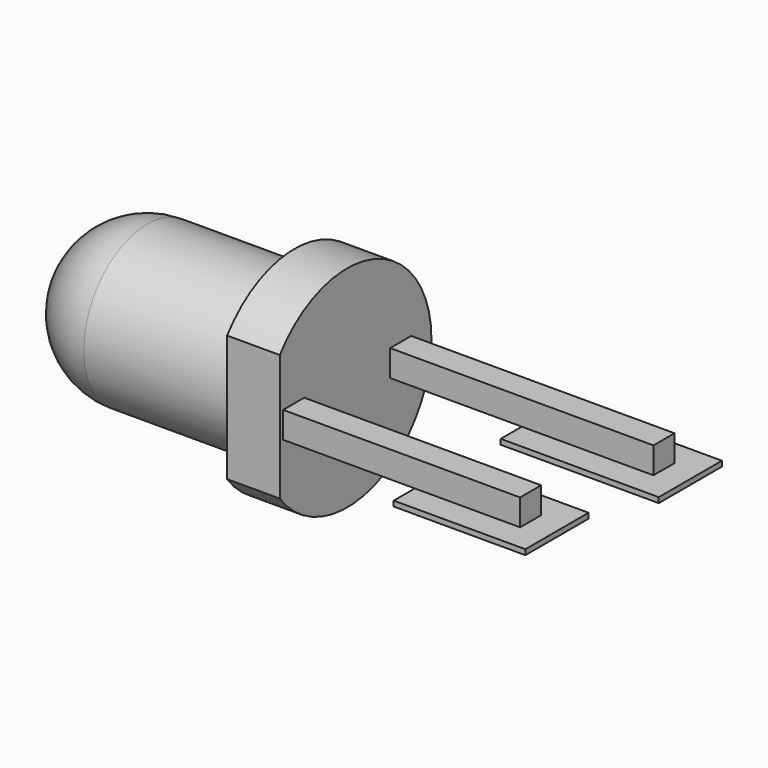
from build123d import *

# Parameters (mm, degrees)
SKETCH_W     = 3
SKETCH_H     = 1.5
PAD_DEPTH    = 0.1
SKETCH001_W  = 2.5
SKETCH001_H  = 1.5
PAD001_DEPTH = 0.1
SKETCH002_W  = 0.5
SKETCH002_H  = 0.5
PAD002_DEPTH = 5
SKETCH003_W  = 0.5
SKETCH003_H  = 0.5
PAD003_DEPTH = 4.5
PAD004_DEPTH = 1
SKETCH005_R  = 1.5
PAD005_DEPTH = 4.3
FILLET_R     = 1.5


with BuildPart() as obj1:
    # Sketch → Pad (new body)
    with BuildSketch(Plane.XY):
        with Locations((2, 1.27)):
            Rectangle(SKETCH_W, SKETCH_H)
    extrude(amount=-PAD_DEPTH)


with BuildPart() as pad_cathode:
    # Sketch001 → Pad001 (new body)
    with BuildSketch(Plane.XY):
        with Locations((1.75, -1.27)):
            Rectangle(SKETCH001_W, SKETCH001_H)
    extrude(amount=-PAD001_DEPTH)


with BuildPart() as obj2:
    # Sketch002 → Pad002 (new body)
    with BuildSketch(Plane.YZ):
        with Locations((1.27, 0.25)):
            Rectangle(SKETCH002_W, SKETCH002_H)
    extrude(amount=PAD002_DEPTH)


with BuildPart() as obj2_1:
    # Body002 placement: moved
    add(obj2.part.moved(Location((-2, 0, 0))))


with BuildPart() as pin_cathode:
    # Sketch003 → Pad003 (new body)
    with BuildSketch(Plane.YZ):
        with Locations((-1.27, 0.25)):
            Rectangle(SKETCH003_W, SKETCH003_H)
    extrude(amount=PAD003_DEPTH)


with BuildPart() as pin_cathode_1:
    # Body003 placement: moved
    add(pin_cathode.part.moved(Location((-2, 0, 0))))


with BuildPart() as led_body:
    # Sketch004 → Pad004 (new body)
    with BuildSketch(Plane.YZ):
        with BuildLine():
            ThreePointArc((-1.6, -0.95), (2, 0.25), (-1.6, 1.45))
            Line((-1.6, 1.45), (-1.6, -0.95))
        make_face()
    extrude(amount=-PAD004_DEPTH)

    # Sketch005 (on Face4 of Pad004) → Pad005 (join)
    with BuildSketch(Plane(origin=(-1, 0, 0), x_dir=(0, 1, 0), z_dir=(-1, 0, 0))):
        with Locations((0, -0.25)):
            Circle(SKETCH005_R)
    extrude(amount=PAD005_DEPTH)

    # Fillet
    fillet_edges = [led_body.edges().sort_by_distance(p)[0] for p in [
        (-5.3, -1.5, 0.25),
    ]]
    fillet(fillet_edges, radius=FILLET_R)


with BuildPart() as led_body_1:
    # Body004 placement: moved
    add(led_body.part.moved(Location((-2, 0, 0))))


solid = Compound([obj1.part, pad_cathode.part, obj2_1.part, pin_cathode_1.part, led_body_1.part])
